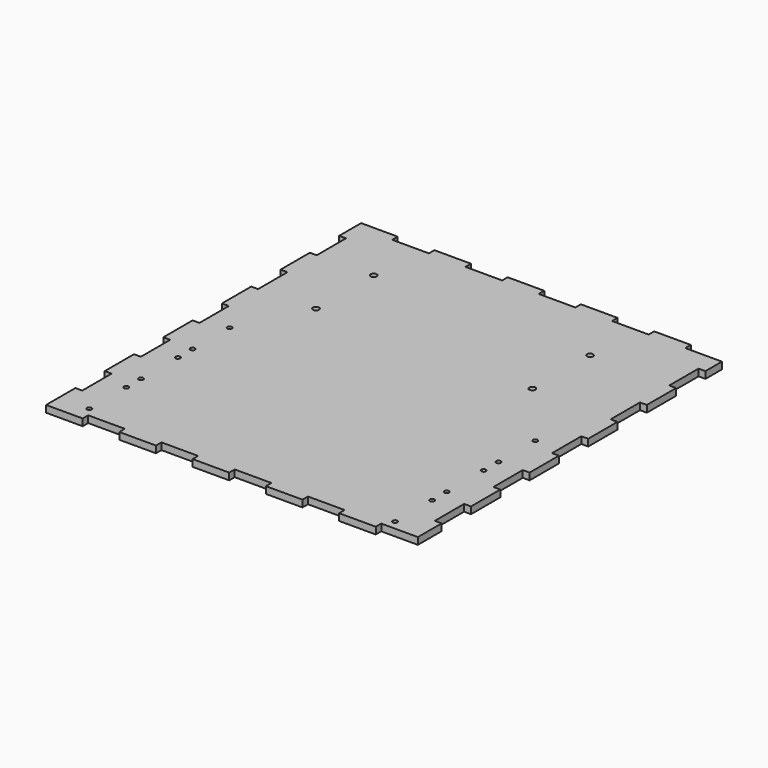
from build123d import *

# Parameters (mm, degrees)
F0_W     = 254
F0_H     = 273.05
F0_R     = 1.6
F0_R_2   = 2.1
F1_DEPTH = 4.7625
F2_W     = 25.4
F2_H     = 4.7625
F2_W_2   = 4.7625
F2_H_2   = 25.4
F3_DEPTH = 25.4


with BuildPart() as f1:
    # F0 (on Top) → F1 (new body)
    with BuildSketch(Plane.XY):
        with Locations((127, 136.525)):
            Rectangle(F0_W, F0_H)
        with Locations((21, 11.2625)):
            Circle(F0_R, mode=Mode.SUBTRACT)
        with Locations((21, 43.2625)):
            Circle(F0_R, mode=Mode.SUBTRACT)
        with Locations((21, 56.025)):
            Circle(F0_R, mode=Mode.SUBTRACT)
        with Locations((21, 88.025)):
            Circle(F0_R, mode=Mode.SUBTRACT)
        with Locations((21, 100.7875)):
            Circle(F0_R, mode=Mode.SUBTRACT)
        with Locations((21, 132.7875)):
            Circle(F0_R, mode=Mode.SUBTRACT)
        with Locations((233, 11.2625)):
            Circle(F0_R, mode=Mode.SUBTRACT)
        with Locations((233, 43.2625)):
            Circle(F0_R, mode=Mode.SUBTRACT)
        with Locations((233, 56.025)):
            Circle(F0_R, mode=Mode.SUBTRACT)
        with Locations((233, 88.025)):
            Circle(F0_R, mode=Mode.SUBTRACT)
        with Locations((233, 100.7875)):
            Circle(F0_R, mode=Mode.SUBTRACT)
        with Locations((233, 132.7875)):
            Circle(F0_R, mode=Mode.SUBTRACT)
        with Locations((43.6125, 179.4475)):
            Circle(F0_R_2, mode=Mode.SUBTRACT)
        with Locations((43.6125, 229.4475)):
            Circle(F0_R_2, mode=Mode.SUBTRACT)
        with Locations((193.6125, 179.4475)):
            Circle(F0_R_2, mode=Mode.SUBTRACT)
        with Locations((193.6125, 229.4475)):
            Circle(F0_R_2, mode=Mode.SUBTRACT)
    extrude(amount=F1_DEPTH)

    # F2 (on face) → F3 (cut)
    with BuildSketch(Plane.XY.offset(4.7625)):
        with Locations((38.1, 2.38125)):
            Rectangle(F2_W, F2_H)
        with Locations((88.9, 2.38125)):
            Rectangle(F2_W, F2_H)
        with Locations((139.7, 2.38125)):
            Rectangle(F2_W, F2_H)
        with Locations((190.5, 2.38125)):
            Rectangle(F2_W, F2_H)
        with Locations((241.3, 2.38125)):
            Rectangle(F2_W, F2_H)
        with Locations((2.38125, 241.3)):
            Rectangle(F2_W_2, F2_H_2)
        with Locations((2.38125, 190.5)):
            Rectangle(F2_W_2, F2_H_2)
        with Locations((2.38125, 139.7)):
            Rectangle(F2_W_2, F2_H_2)
        with Locations((2.38125, 88.9)):
            Rectangle(F2_W_2, F2_H_2)
        with Locations((2.38125, 38.1)):
            Rectangle(F2_W_2, F2_H_2)
        with Locations((251.61875, 241.3)):
            Rectangle(F2_W_2, F2_H_2)
        with Locations((251.61875, 190.5)):
            Rectangle(F2_W_2, F2_H_2)
        with Locations((251.61875, 139.7)):
            Rectangle(F2_W_2, F2_H_2)
        with Locations((251.61875, 88.9)):
            Rectangle(F2_W_2, F2_H_2)
        with Locations((251.61875, 38.1)):
            Rectangle(F2_W_2, F2_H_2)
        with Locations((38.1, 270.66875)):
            Rectangle(F2_W, F2_H)
        with Locations((88.9, 270.66875)):
            Rectangle(F2_W, F2_H)
        with Locations((139.7, 270.66875)):
            Rectangle(F2_W, F2_H)
        with Locations((190.5, 270.66875)):
            Rectangle(F2_W, F2_H)
        with Locations((241.3, 270.66875)):
            Rectangle(F2_W, F2_H)
    extrude(amount=-F3_DEPTH, mode=Mode.SUBTRACT)


solid = f1.part
